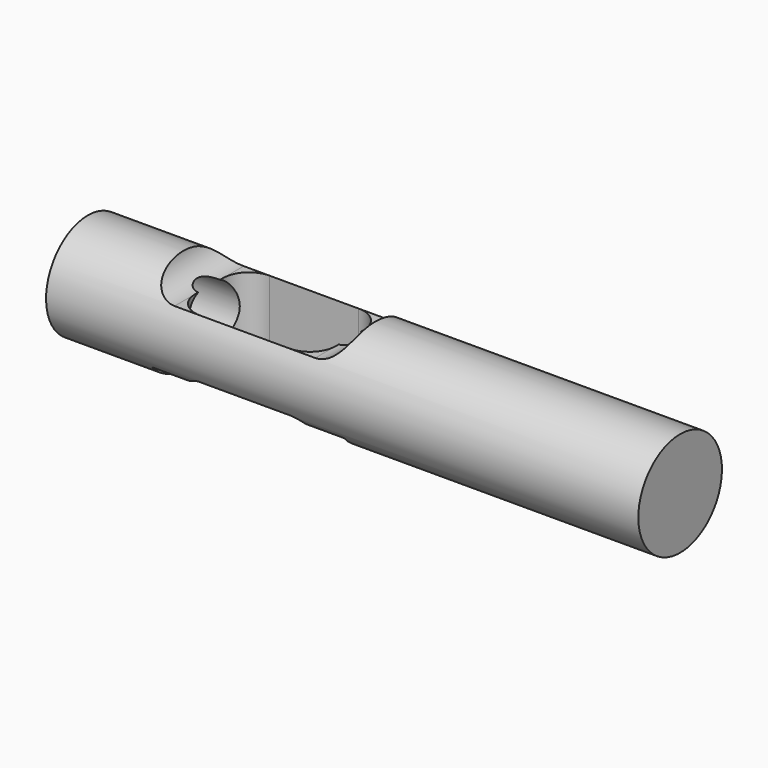
from build123d import *

# Parameters (mm, degrees)
F0_W     = 115.125928
F0_H     = 10.15817
F2_W     = 37.343366
F2_H     = 12.383293
F3_DEPTH = 25
F4_R     = 6.295086
F5_DEPTH = 59.5
F7_DEPTH = 25


with BuildPart() as f1:
    # F0 (on Front) → F1 (revolve)
    with BuildSketch(Plane.XZ):
        with Locations((-1.547912, 5.079085)):
            Rectangle(F0_W, F0_H)
    revolve(axis=Axis((-1.547912, 0, 0), (-1, 0, 0)))

    # F2 (on Front) → F3 (cut, symmetric)
    with BuildSketch(Plane.XZ):
        with BuildLine():
            Line((-3.192568, 19.639129), (-40.535934, 19.639129))
            Line((-40.535934, 19.639129), (-40.535934, 10.707924))
            ThreePointArc((-40.535934, 10.707924), (-39.071468, 7.17239), (-35.535934, 5.707924))
            Line((-35.535934, 5.707924), (-8.192568, 5.707924))
            ThreePointArc((-8.192568, 5.707924), (-4.657034, 7.17239), (-3.192568, 10.707924))
            Line((-3.192568, 10.707924), (-3.192568, 19.639129))
        make_face()
        with Locations((-21.864251, -12.867015)):
            Rectangle(F2_W, F2_H)
    extrude(amount=F3_DEPTH, both=True, mode=Mode.SUBTRACT)

    # F4 (on face) → F5 (cut)
    with BuildSketch(Plane(origin=(-59.110876, 0, 0), x_dir=(0, -1, 0), z_dir=(-1, 0, 0))):
        Circle(F4_R)
    extrude(amount=-F5_DEPTH, mode=Mode.SUBTRACT)

    # F6 (on Top) → F7 (cut, symmetric)
    with BuildSketch(Plane.XY):
        with BuildLine():
            Line((-13.192568, 8.402858), (-30.535934, 8.402858))
            ThreePointArc((-30.535934, 8.402858), (-34.071468, 6.938392), (-35.535934, 3.402858))
            Line((-35.535934, 3.402858), (-35.535934, -3.402858))
            ThreePointArc((-35.535934, -3.402858), (-34.071468, -6.938392), (-30.535934, -8.402858))
            Line((-30.535934, -8.402858), (-13.192568, -8.402858))
            ThreePointArc((-13.192568, -8.402858), (-9.657034, -6.938392), (-8.192568, -3.402858))
            Line((-8.192568, -3.402858), (-8.192568, 3.402858))
            ThreePointArc((-8.192568, 3.402858), (-9.657034, 6.938392), (-13.192568, 8.402858))
        make_face()
    extrude(amount=F7_DEPTH, both=True, mode=Mode.SUBTRACT)


solid = f1.part
